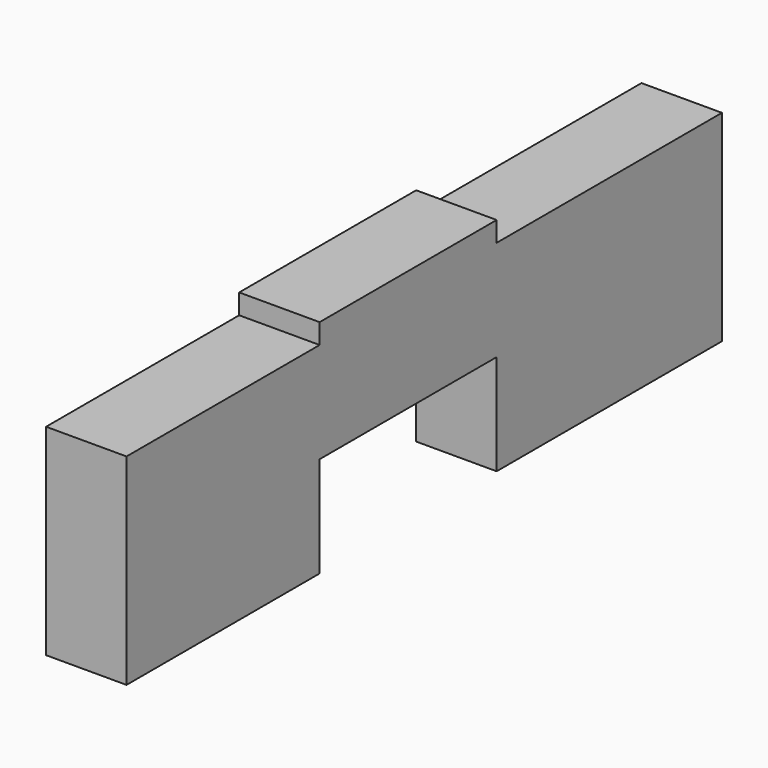
from build123d import *

# Parameters (mm, degrees)
F0_W     = 2819.4
F0_H     = 762
F1_DEPTH = 304.8
F2_W     = 838.2
F2_H     = 381
F3_DEPTH = 304.8
F4_W     = 304.8
F4_H     = 838.2
F5_DEPTH = 76.2


with BuildPart() as f1:
    # F0 (on Right) → F1 (new body)
    with BuildSketch(Plane.YZ):
        Rectangle(F0_W, F0_H)
        Rectangle(F0_W, F0_H)
    extrude(amount=F1_DEPTH)

    # F2 (on face) → F3 (cut)
    with BuildSketch(Plane.YZ.offset(304.8)):
        with Locations((-76.2, -190.5)):
            Rectangle(F2_W, F2_H)
    extrude(amount=-F3_DEPTH, mode=Mode.SUBTRACT)

    # F4 (on face) → F5 (join)
    with BuildSketch(Plane.XY.offset(381)):
        with Locations((152.4, -76.2)):
            Rectangle(F4_W, F4_H)
    extrude(amount=F5_DEPTH)


solid = f1.part
